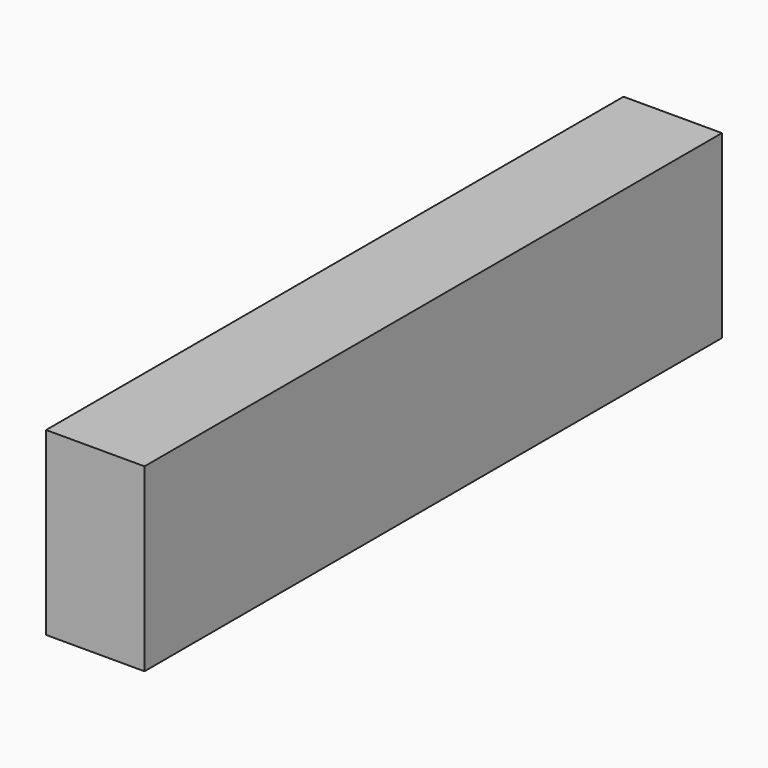
from build123d import *

# Parameters (mm, degrees)
SKETCH_W  = 132
SKETCH_H  = 33
PAD_DEPTH = 18


with BuildPart() as part:
    # Sketch → Pad (new body)
    with BuildSketch(Plane.YZ):
        with Locations((-66, 16.5)):
            Rectangle(SKETCH_W, SKETCH_H)
    extrude(amount=PAD_DEPTH)


solid = part.part
